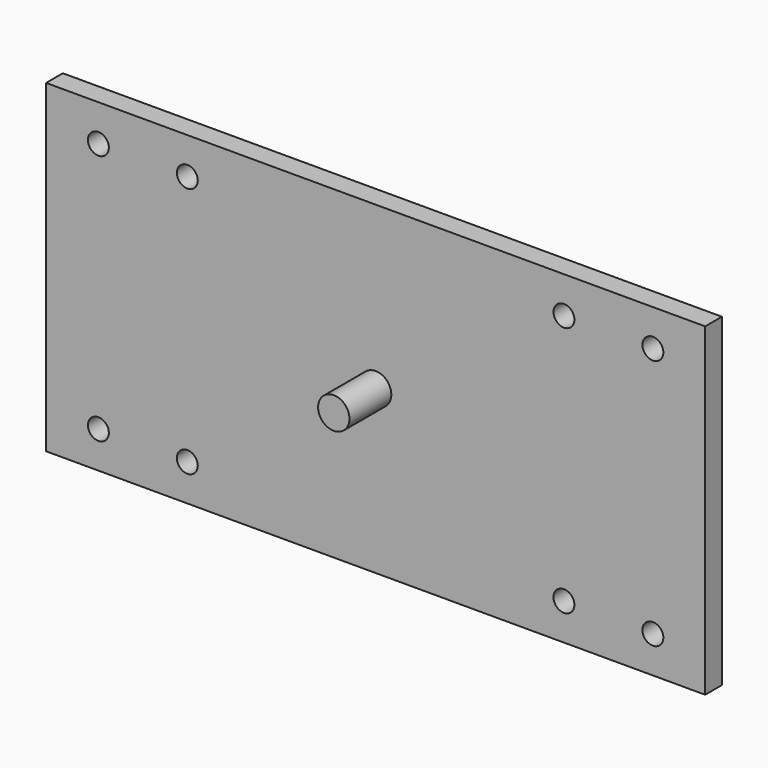
from build123d import *

# Parameters (mm, degrees)
F0_W     = 43
F0_H     = 31
F1_DEPTH = 2
F2_R     = 1.5
F3_DEPTH = 5
F4_R     = 1
F5_DEPTH = 2.001
F6_W     = 43
F6_H     = 31
F6_R     = 1
F6_W_2   = 10
F7_DEPTH = 2
F8_DEPTH = 2.001


with BuildPart() as f1:
    # F0 (on Front) → F1 (new body)
    with BuildSketch(Plane.XZ):
        Rectangle(F0_W, F0_H)
    extrude(amount=F1_DEPTH)

    # F2 (on face) → F3 (join)
    with BuildSketch(Plane.XZ.offset(2)):
        Circle(F2_R)
    extrude(amount=F3_DEPTH)

    # F4 (on face) → F5 (cut, through all)
    with BuildSketch(Plane.XZ.offset(2)):
        with Locations((18, 12)):
            Circle(F4_R)
        with Locations((18, -12)):
            Circle(F4_R)
        with Locations((-18, 12)):
            Circle(F4_R)
        with Locations((-18, -12)):
            Circle(F4_R)
    extrude(amount=-F5_DEPTH, mode=Mode.SUBTRACT)

    # F6 (on Front) → F7 (join)
    with BuildSketch(Plane.XZ):
        Rectangle(F6_W, F6_H)
        with Locations((18, 12)):
            Circle(F6_R, mode=Mode.SUBTRACT)
        with Locations((-26.5, 0)):
            Rectangle(F6_W_2, F6_H)
        with Locations((-26.5, -12)):
            Circle(F6_R, mode=Mode.SUBTRACT)
        with Locations((-26.5, 12)):
            Circle(F6_R, mode=Mode.SUBTRACT)
        with Locations((26.5, 0)):
            Rectangle(F6_W_2, F6_H)
        with Locations((26.5, -12)):
            Circle(F6_R, mode=Mode.SUBTRACT)
        with Locations((26.5, 12)):
            Circle(F6_R, mode=Mode.SUBTRACT)
    extrude(amount=F7_DEPTH)

    # F4 (on face) → F8 (cut, through all)
    with BuildSketch(Plane.XZ.offset(2)):
        with Locations((18, 12)):
            Circle(F4_R)
        with Locations((18, -12)):
            Circle(F4_R)
        with Locations((-18, 12)):
            Circle(F4_R)
        with Locations((-18, -12)):
            Circle(F4_R)
    extrude(amount=-F8_DEPTH, mode=Mode.SUBTRACT)


solid = f1.part
